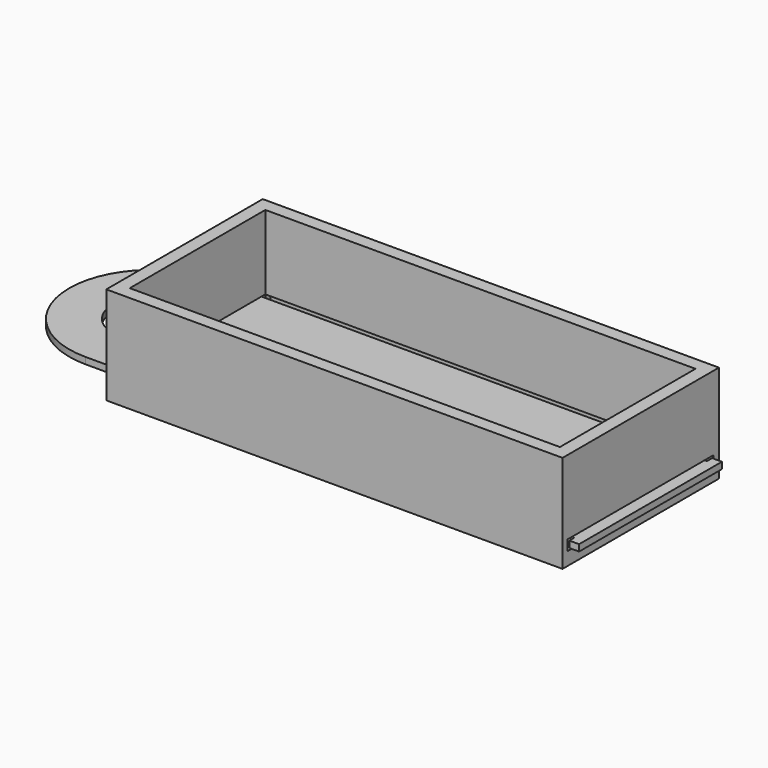
from build123d import *

# Parameters (mm, degrees)
F0_W          = 70
F0_H          = 30
F0_W_2        = 66
F0_H_2        = 26
F1_DEPTH      = 15
F2_W          = 28
F2_H          = 1.6
F3_DEPTH      = 33
F3_DEPTH_BACK = 35
F4_W          = 26
F4_H          = 1.6
F5_DEPTH      = 2
F6_W          = 25.4
F6_H          = 1
F7_DEPTH      = 70
F7_DEPTH_BACK = 5
F8_W          = 1
F8_H          = 1
F8_W_2        = 25.4
F9_DEPTH      = 1.5
F11_DEPTH     = 1
F12_D         = 12


with BuildPart() as f1:
    # F0 (on Top) → F1 (new body)
    with BuildSketch(Plane.XY):
        Rectangle(F0_W, F0_H)
        Rectangle(F0_W_2, F0_H_2, mode=Mode.SUBTRACT)
    extrude(amount=F1_DEPTH)

    # F2 (on Right) → F3 (cut, two sides)
    with BuildSketch(Plane.YZ) as f3_sk:
        with Locations((0, 2.8)):
            Rectangle(F2_W, F2_H)
    extrude(amount=-F3_DEPTH, mode=Mode.SUBTRACT)
    extrude(f3_sk.sketch, amount=F3_DEPTH_BACK, mode=Mode.SUBTRACT)

    # F4 (on face) → F5 (cut, through all)
    with BuildSketch(Plane(origin=(-35, 0, 0), x_dir=(0, -1, 0), z_dir=(-1, 0, 0))):
        with Locations((0, 2.8)):
            Rectangle(F4_W, F4_H)
    extrude(amount=-F5_DEPTH, mode=Mode.SUBTRACT)


with BuildPart() as f7:
    # F6 (on face) → F7 (new body, two sides)
    with BuildSketch(Plane(origin=(-35, 0, 0), x_dir=(0, -1, 0), z_dir=(-1, 0, 0))) as f7_sk:
        with Locations((0, 2.8)):
            Rectangle(F6_W, F6_H)
    extrude(amount=-F7_DEPTH)
    extrude(f7_sk.sketch, amount=F7_DEPTH_BACK)

    # F8 (on face) → F9 (join)
    with BuildSketch(Plane.YZ.offset(35)):
        with Locations((-13.2, 2.8)):
            Rectangle(F8_W, F8_H)
        with Locations((13.2, 2.8)):
            Rectangle(F8_W, F8_H)
        with Locations((0, 2.8)):
            Rectangle(F8_W_2, F8_H)
    extrude(amount=F9_DEPTH)

    # F10 (on face) → F11 (join, through all)
    with BuildSketch(Plane.XY.offset(3.3)):
        with BuildLine():
            Line((-40, -12.7), (-40, 12.7))
            ThreePointArc((-40, 12.7), (-52.7, 0), (-40, -12.7))
        make_face()
    extrude(amount=-F11_DEPTH)

    # F12 (through all)
    with Locations(Plane.XY.offset(3.3)):
        with Locations((-40, 0)):
            Hole(F12_D / 2)


solid = Compound([f1.part, f7.part])
